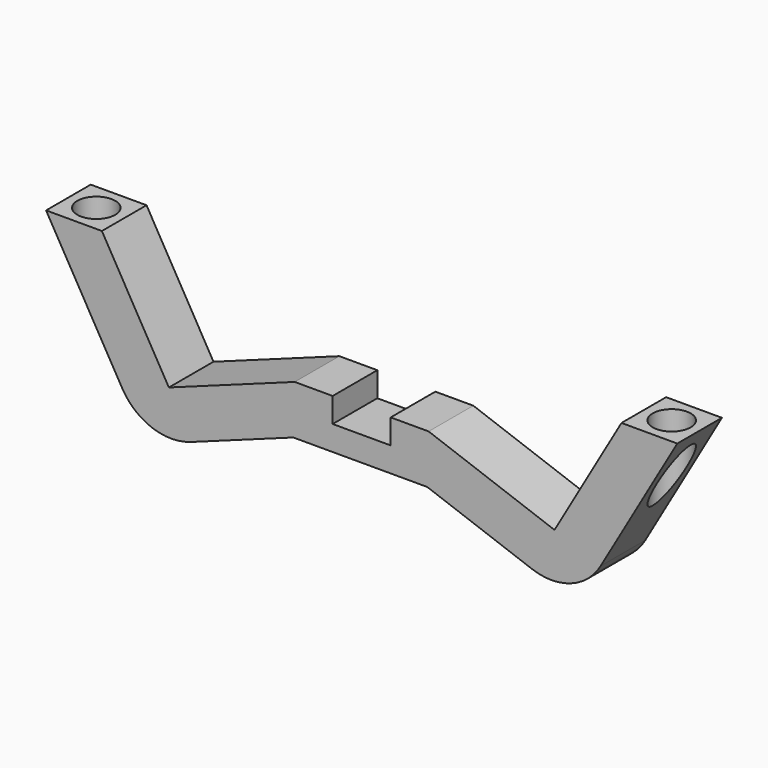
from build123d import *

# Parameters (mm, degrees)
F0_W     = 13
F0_H     = 5.527861
F1_DEPTH = 12.5
F3_R     = 4.25
F4_DEPTH = 33.782
F2_R     = 4.25
F5_DEPTH = 25.4
F6_DEPTH = 25.4


with BuildPart() as f1:
    # F0 (on Front) → F1 (new body)
    with BuildSketch(Plane.XZ):
        with BuildLine():
            Line((-113.13897, 5.527861), (-113.13897, 11.055722))
            Line((-113.13897, 11.055722), (-121.63897, 11.055722))
            Line((-121.63897, 11.055722), (-149.829749, 0.795117))
            Line((-149.829749, 0.795117), (-164.829749, 26.77588))
            Line((-164.829749, 26.77588), (-177.329749, 26.77588))
            Line((-177.329749, 26.77588), (-160.275072, -2.763686))
            ThreePointArc((-160.275072, -2.763686), (-153.492043, -8.393653), (-144.678081, -8.251933))
            Line((-144.678081, -8.251933), (-145.446718, -8.550504))
            Line((-145.446718, -8.550504), (-121.954403, 0))
            Line((-121.954403, 0), (-113.13897, 0))
            Line((-113.13897, 0), (-113.13897, 5.527861))
        make_face()
        with Locations((-106.63897, 8.291791)):
            Rectangle(F0_W, F0_H)
        with Locations((-106.63897, 2.76393)):
            Rectangle(F0_W, F0_H)
        with BuildLine():
            Line((-53.119909, -2.966407), (-35.948191, 26.77588))
            Line((-35.948191, 26.77588), (-48.448191, 26.77588))
            Line((-48.448191, 26.77588), (-63.448191, 0.795117))
            Line((-63.448191, 0.795117), (-91.63897, 11.055722))
            Line((-91.63897, 11.055722), (-100.13897, 11.055722))
            Line((-100.13897, 11.055722), (-100.13897, 5.527861))
            Line((-100.13897, 5.527861), (-100.13897, 0))
            Line((-100.13897, 0), (-91.954403, 0))
            Line((-91.954403, 0), (-68.462087, -8.550504))
            ThreePointArc((-68.462087, -8.550504), (-59.774775, -8.550504), (-53.119909, -2.966407))
        make_face()
    extrude(amount=-F1_DEPTH)

    # F3 (on face) → F4 (cut)
    with BuildSketch(Plane.XY.offset(26.77588)):
        with Locations((-171.079749, 6.25)):
            Circle(F3_R)
    extrude(amount=-F4_DEPTH, mode=Mode.SUBTRACT)

    # F2 (on face) → F5 (cut)
    with BuildSketch(Plane.XY.offset(26.77588)):
        with Locations((-42.198191, 6.25)):
            Circle(F2_R)
    extrude(amount=-F5_DEPTH, mode=Mode.SUBTRACT)

    # F0 (on Front) → F6 (cut)
    with BuildSketch(Plane.XZ):
        with Locations((-106.63897, 8.291791)):
            Rectangle(F0_W, F0_H)
    extrude(amount=-F6_DEPTH, mode=Mode.SUBTRACT)


solid = f1.part
